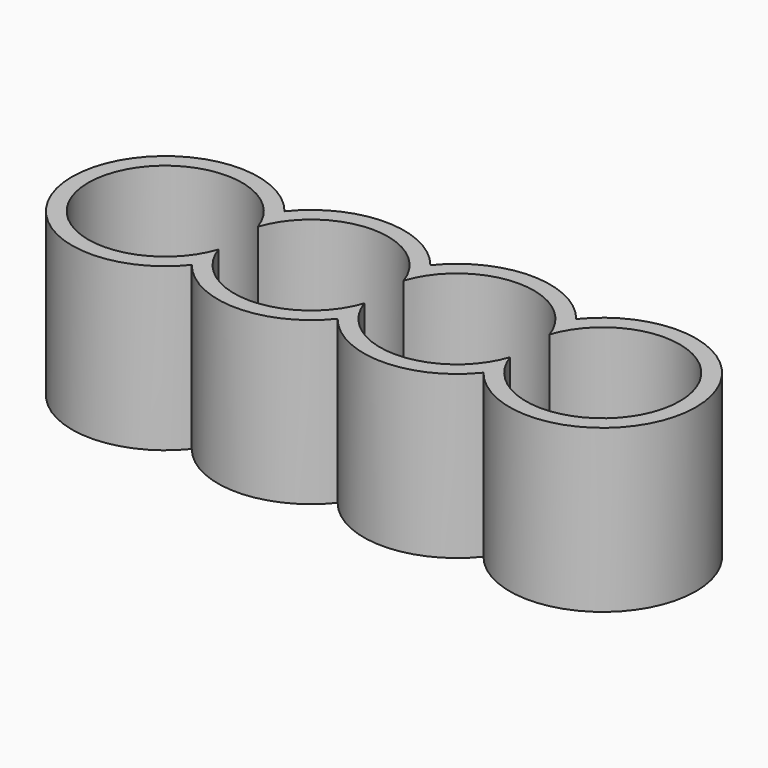
from build123d import *

# Parameters (mm, degrees)
F1_DEPTH = 100


with BuildPart() as f1:
    # F0 (on Top) → F1 (new body)
    with BuildSketch(Plane.XY):
        with BuildLine():
            ThreePointArc((0, 35.794553), (-45, 57.5), (-90, 35.794553))
            ThreePointArc((-90, 35.794553), (-192.5, 0), (-90, -35.794553))
            ThreePointArc((-90, -35.794553), (-45, -57.5), (0, -35.794553))
            ThreePointArc((0, -35.794553), (45, -57.5), (90, -35.794553))
            ThreePointArc((90, -35.794553), (192.5, 0), (90, 35.794553))
            ThreePointArc((90, 35.794553), (45, 57.5), (0, 35.794553))
        make_face()
        with BuildLine():
            ThreePointArc((-90, -15.206906), (-182.5, 0), (-90, 15.206906))
            ThreePointArc((-90, 15.206906), (-45, 47.5), (0, 15.206906))
            ThreePointArc((0, 15.206906), (45, 47.5), (90, 15.206906))
            ThreePointArc((90, 15.206906), (182.5, 0), (90, -15.206906))
            ThreePointArc((90, -15.206906), (45, -47.5), (0, -15.206906))
            ThreePointArc((0, -15.206906), (-45, -47.5), (-90, -15.206906))
        make_face(mode=Mode.SUBTRACT)
    extrude(amount=-F1_DEPTH)


solid = f1.part
